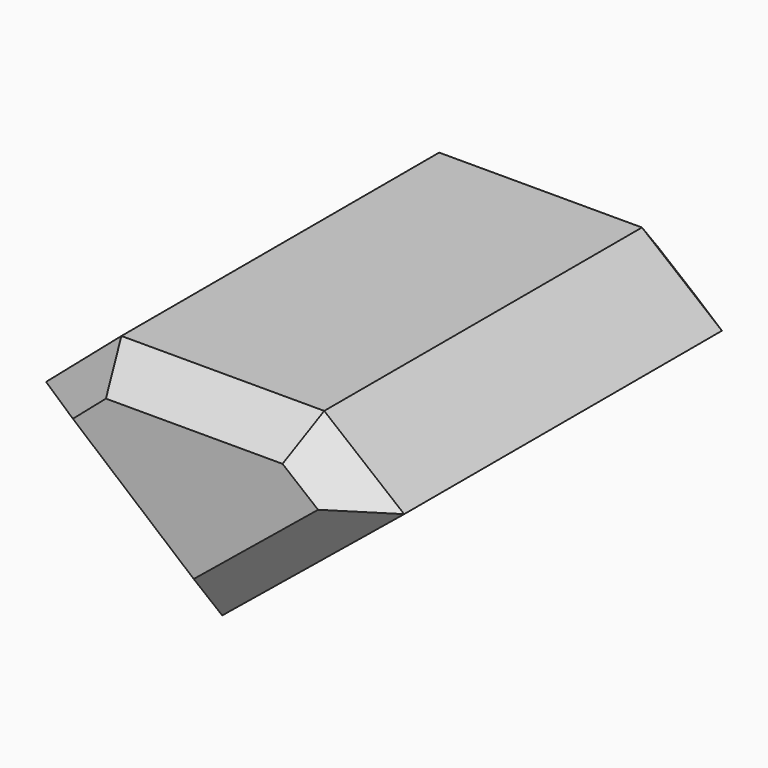
from build123d import *

# Parameters (mm, degrees)
F1_DEPTH = 27.94
F2_SIZE  = 2.54
F3_SIZE  = 2.54
F4_DEPTH = 5.08
F5_SIZE  = 2.54


with BuildPart() as f1:
    # F0 (on Front) → F1 (new body)
    with BuildSketch(Plane.XZ):
        Polygon((-8.624467, 1.226793), (3.767109, -9.208218), (16.566303, 1.226793), (10.941179, 5.79211), (-3.325438, 5.79211), align=None)
    extrude(amount=F1_DEPTH)

    # F2
    f2_edges = [f1.edges().sort_by_distance(p)[0] for p in [
        (10.166706, -27.94, -3.990713),
    ]]
    chamfer(f2_edges, length=F2_SIZE)

    # F3
    f3_edges = [f1.edges().sort_by_distance(p)[0] for p in [
        (-3.417335, -27.94, -3.15816),
        (-5.974952, -27.94, 3.509451),
        (3.807871, -27.94, 5.79211),
        (12.746543, -27.94, 4.326888),
    ]]
    chamfer(f3_edges, length=F3_SIZE)

    # F1_face (on face) → F4 (join)
    with BuildSketch(Plane(origin=(3.900516, 0, 0.005362), x_dir=(1, 0, 0), z_dir=(0, 1, 0))):
        Polygon((-0.133406, 9.21358), (-12.524983, -1.221431), (-7.225954, -5.786748), (7.040663, -5.786748), (12.665787, -1.221431), align=None)
    extrude(amount=F4_DEPTH)

    # F5
    f5_edges = [f1.edges().sort_by_distance(p)[0] for p in [
        (10.166706, 5.08, -3.990713),
        (-2.428679, 5.08, -3.990713),
        (-5.974952, 5.08, 3.509451),
        (3.807871, 5.08, 5.79211),
        (13.753741, 5.08, 3.509451),
    ]]
    chamfer(f5_edges, length=F5_SIZE)


solid = f1.part
